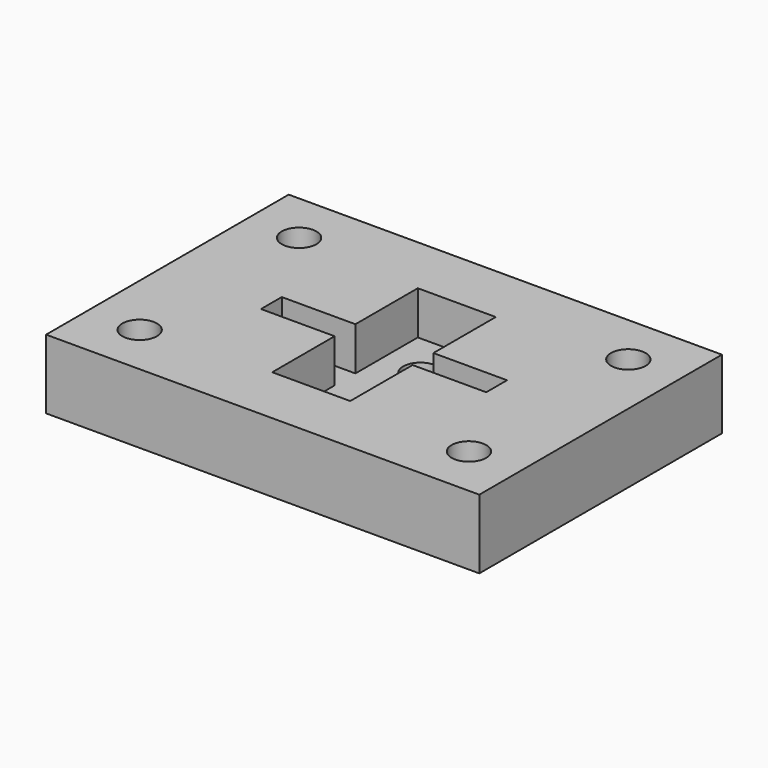
from build123d import *

# Parameters (mm, degrees)
CYLINDER003_R     = 2
CYLINDER003_DEPTH = 10
CYLINDER002_R     = 2
CYLINDER002_DEPTH = 10
CYLINDER001_R     = 2
CYLINDER001_DEPTH = 10
CYLINDER_R        = 2
CYLINDER_DEPTH    = 10
BOX001_W          = 26
BOX001_H          = 3
BOX001_DEPTH      = 8
BOX002_W          = 9
BOX002_H          = 21
BOX002_DEPTH      = 8
BOX_W             = 50
BOX_H             = 35
BOX_DEPTH         = 8
CYLINDER004_R     = 2
CYLINDER004_DEPTH = 10
CYLINDER005_R     = 2
CYLINDER005_DEPTH = 10
BOX003_W          = 50
BOX003_H          = 35
BOX003_DEPTH      = 3


with BuildPart() as cylinder003:
    # Cylinder003 → Cylinder003 (new body)
    with BuildSketch(Plane(origin=(44, 29, 0), x_dir=(1, 0, 0), z_dir=(0, 0, 1))):
        Circle(CYLINDER003_R)
    extrude(amount=CYLINDER003_DEPTH)


with BuildPart() as cylinder002:
    # Cylinder002 → Cylinder002 (new body)
    with BuildSketch(Plane(origin=(6, 29, 0), x_dir=(1, 0, 0), z_dir=(0, 0, 1))):
        Circle(CYLINDER002_R)
    extrude(amount=CYLINDER002_DEPTH)


with BuildPart() as cylinder001:
    # Cylinder001 → Cylinder001 (new body)
    with BuildSketch(Plane(origin=(44, 6, 0), x_dir=(1, 0, 0), z_dir=(0, 0, 1))):
        Circle(CYLINDER001_R)
    extrude(amount=CYLINDER001_DEPTH)


with BuildPart() as cylinder:
    # Cylinder → Cylinder (new body)
    with BuildSketch(Plane(origin=(6, 6, 0), x_dir=(1, 0, 0), z_dir=(0, 0, 1))):
        Circle(CYLINDER_R)
    extrude(amount=CYLINDER_DEPTH)


with BuildPart() as cube001:
    # Box001 → Box001 (new body)
    with BuildSketch(Plane(origin=(12, 16, 0), x_dir=(1, 0, 0), z_dir=(0, 0, 1))):
        with Locations((13, 1.5)):
            Rectangle(BOX001_W, BOX001_H)
    extrude(amount=BOX001_DEPTH)


with BuildPart() as cube002:
    # Box002 → Box002 (new body)
    with BuildSketch(Plane(origin=(20.5, 7, 0), x_dir=(1, 0, 0), z_dir=(0, 0, 1))):
        with Locations((4.5, 10.5)):
            Rectangle(BOX002_W, BOX002_H)
    extrude(amount=BOX002_DEPTH)


with BuildPart() as cut003:
    # Box → Box (new body)
    with BuildSketch(Plane.XY):
        with Locations((25, 17.5)):
            Rectangle(BOX_W, BOX_H)
    extrude(amount=BOX_DEPTH)

    # Cut: cut Cube002
    add(cube002.part, mode=Mode.SUBTRACT)

    # Cut003: cut Cube001
    add(cube001.part, mode=Mode.SUBTRACT)


with BuildPart() as cylinder004:
    # Cylinder004 → Cylinder004 (new body)
    with BuildSketch(Plane(origin=(25, 22.755, 0), x_dir=(1, 0, 0), z_dir=(0, 0, 1))):
        Circle(CYLINDER004_R)
    extrude(amount=CYLINDER004_DEPTH)


with BuildPart() as cylinder005:
    # Cylinder005 → Cylinder005 (new body)
    with BuildSketch(Plane(origin=(25, 12.25, 0), x_dir=(1, 0, 0), z_dir=(0, 0, 1))):
        Circle(CYLINDER005_R)
    extrude(amount=CYLINDER005_DEPTH)


with BuildPart() as cut007:
    # Box003 → Box003 (new body)
    with BuildSketch(Plane.XY):
        with Locations((25, 17.5)):
            Rectangle(BOX003_W, BOX003_H)
    extrude(amount=BOX003_DEPTH)

    # Cut001: cut Cylinder005
    add(cylinder005.part, mode=Mode.SUBTRACT)

    # Cut002: cut Cylinder004
    add(cylinder004.part, mode=Mode.SUBTRACT)

    # Fusion: union Cut003
    add(cut003.part)

    # Cut004: cut Cylinder
    add(cylinder.part, mode=Mode.SUBTRACT)

    # Cut005: cut Cylinder001
    add(cylinder001.part, mode=Mode.SUBTRACT)

    # Cut006: cut Cylinder002
    add(cylinder002.part, mode=Mode.SUBTRACT)

    # Cut007: cut Cylinder003
    add(cylinder003.part, mode=Mode.SUBTRACT)


solid = cut007.part
